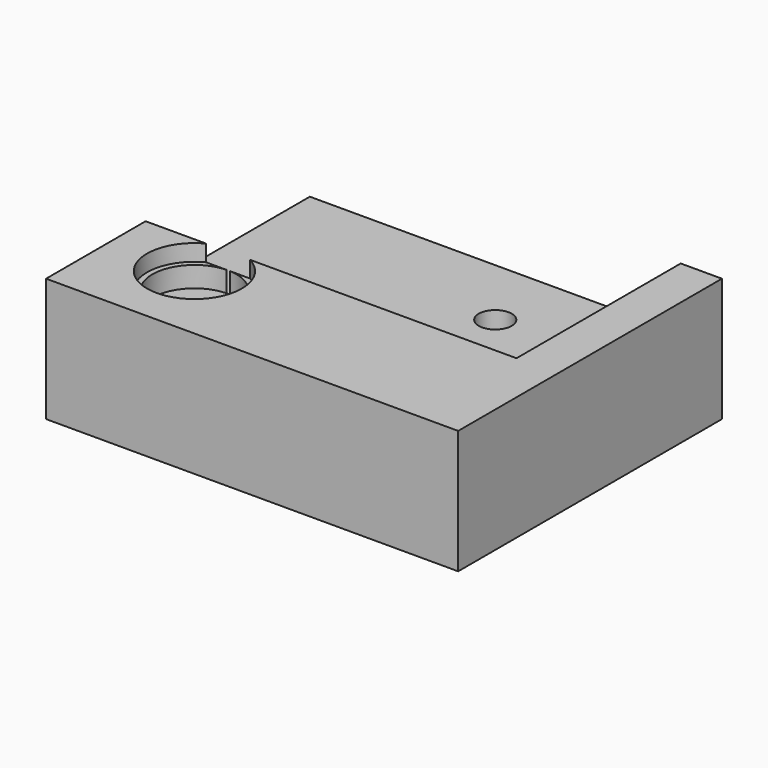
from build123d import *

# Parameters (mm, degrees)
F0_W      = 50
F0_H      = 40
F1_DEPTH  = 15
F2_R      = 5.75
F3_DEPTH  = 2
F4_R      = 2
F5_DEPTH  = 15.001
F6_W      = 45
F6_H      = 24.904493
F7_DEPTH  = 7.5
F8_R      = 5.1
F9_DEPTH  = 2.5
F10_R     = 1.75
F11_DEPTH = 15.001


with BuildPart() as f1:
    # F0 (on Top) → F1 (new body)
    with BuildSketch(Plane.XY):
        with Locations((25, -20)):
            Rectangle(F0_W, F0_H)
    extrude(amount=F1_DEPTH)

    # F2 (on face) → F3 (cut)
    with BuildSketch(Plane.XY.offset(15)):
        with Locations((10, -30)):
            Circle(F2_R)
    extrude(amount=-F3_DEPTH, mode=Mode.SUBTRACT)

    # F4 (on face) → F5 (cut, through all)
    with BuildSketch(Plane.XY.offset(15)):
        with Locations((29.5, -8.755066)):
            Circle(F4_R)
    extrude(amount=-F5_DEPTH, mode=Mode.SUBTRACT)

    # F6 (on face) → F7 (cut)
    with BuildSketch(Plane.XY.offset(15)):
        with Locations((22.5, -12.452246)):
            Rectangle(F6_W, F6_H)
    extrude(amount=-F7_DEPTH, mode=Mode.SUBTRACT)

    # F8 (on face) → F9 (cut)
    with BuildSketch(Plane.XY.offset(13)):
        with Locations((10, -30)):
            Circle(F8_R)
    extrude(amount=-F9_DEPTH, mode=Mode.SUBTRACT)

    # F10 (on face) → F11 (cut, through all)
    with BuildSketch(Plane.XY.offset(15)):
        with Locations((10, -30)):
            Circle(F10_R)
    extrude(amount=-F11_DEPTH, mode=Mode.SUBTRACT)


solid = f1.part
